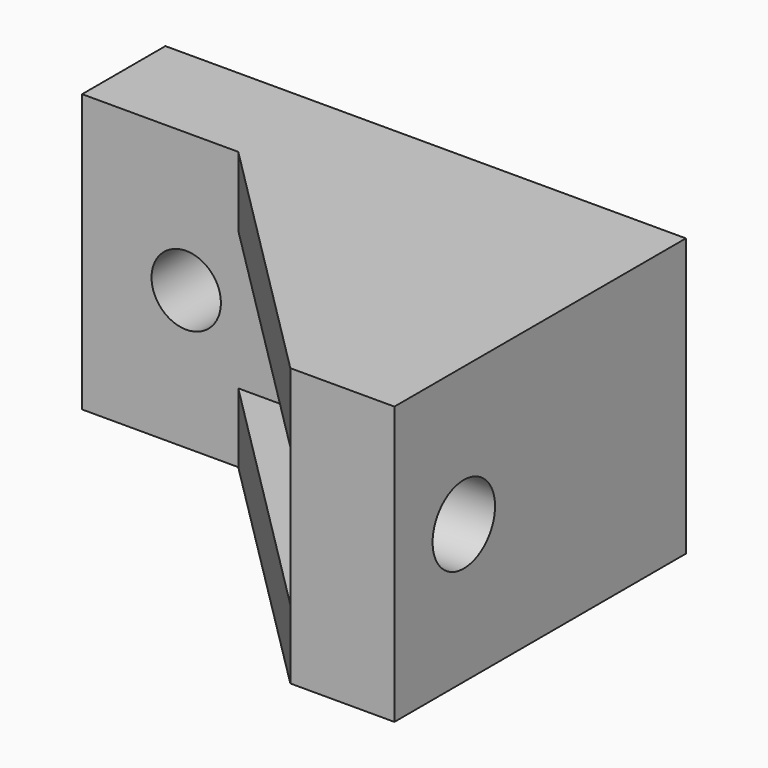
from build123d import *

# Parameters (mm, degrees)
F0_W     = 30
F0_H     = 16
F0_R     = 2
F1_DEPTH = 6
F2_W     = 6
F2_H     = 16
F3_DEPTH = 15
F5_DEPTH = 4
F7_DEPTH = 4
F8_R     = 2.25
F9_DEPTH = 25


with BuildPart() as f1:
    # F0 (on Front) → F1 (new body)
    with BuildSketch(Plane.XZ):
        with Locations((20.063871, -5.768647)):
            Rectangle(F0_W, F0_H)
        with Locations((11.063871, -5.768647)):
            Circle(F0_R, mode=Mode.SUBTRACT)
        with Locations((21.063871, -5.768647)):
            Circle(F0_R, mode=Mode.SUBTRACT)
    extrude(amount=F1_DEPTH)

    # F2 (on face) → F3 (join)
    with BuildSketch(Plane.XZ.offset(6)):
        with Locations((32.063871, -5.768647)):
            Rectangle(F2_W, F2_H)
    extrude(amount=F3_DEPTH)

    # F4 (on face) → F5 (join)
    with BuildSketch(Plane(origin=(0, 0, -13.768647), x_dir=(1, 0, 0), z_dir=(0, 0, -1))):
        Polygon((29.063871, 21), (14.063871, 6), (29.063871, 6), align=None)
    extrude(amount=-F5_DEPTH)

    # F6 (on face) → F7 (join)
    with BuildSketch(Plane.XY.offset(2.231353)):
        Polygon((29.063871, -21), (29.063871, -6), (14.063871, -6), align=None)
    extrude(amount=-F7_DEPTH)

    # F8 (on face) → F9 (cut)
    with BuildSketch(Plane.YZ.offset(35.063871)):
        with Locations((-16, -5.768647)):
            Circle(F8_R)
    extrude(amount=-F9_DEPTH, mode=Mode.SUBTRACT)


solid = f1.part
